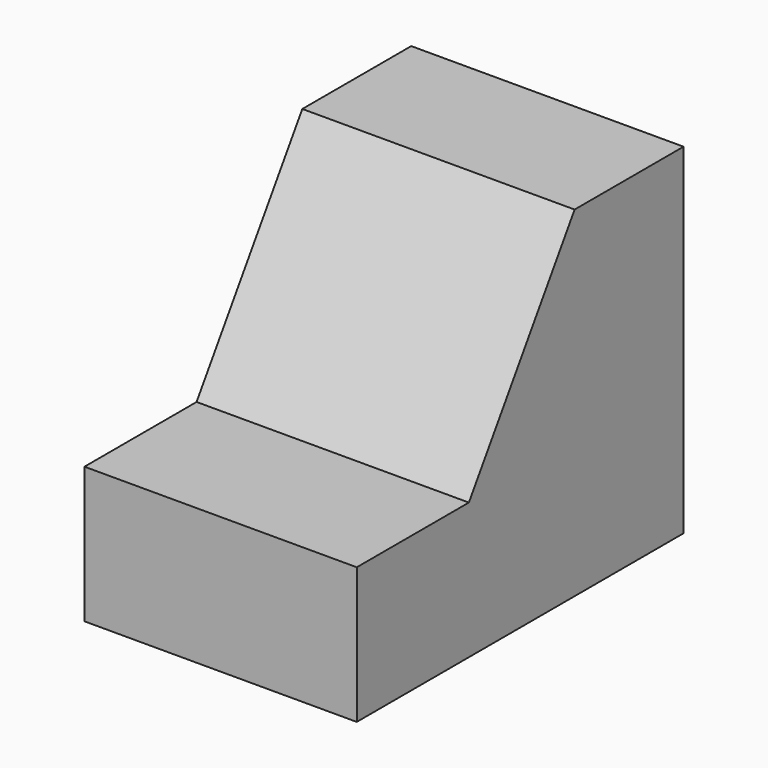
from build123d import *

# Parameters (mm, degrees)
F0_W     = 25.4
F0_H     = 31.75
F1_DEPTH = 38.1
F3_DEPTH = 25.401


with BuildPart() as f1:
    # F0 (on Front) → F1 (new body)
    with BuildSketch(Plane.XZ):
        with Locations((-49.920441, 31.029846)):
            Rectangle(F0_W, F0_H)
    extrude(amount=F1_DEPTH)

    # F2 (on face) → F3 (cut, through all)
    with BuildSketch(Plane(origin=(-62.620441, 0, 0), x_dir=(0, -1, 0), z_dir=(-1, 0, 0))):
        Polygon((38.1, 46.904846), (12.7, 46.904846), (25.028251, 27.854846), (38.1, 27.854846), align=None)
    extrude(amount=-F3_DEPTH, mode=Mode.SUBTRACT)


solid = f1.part
